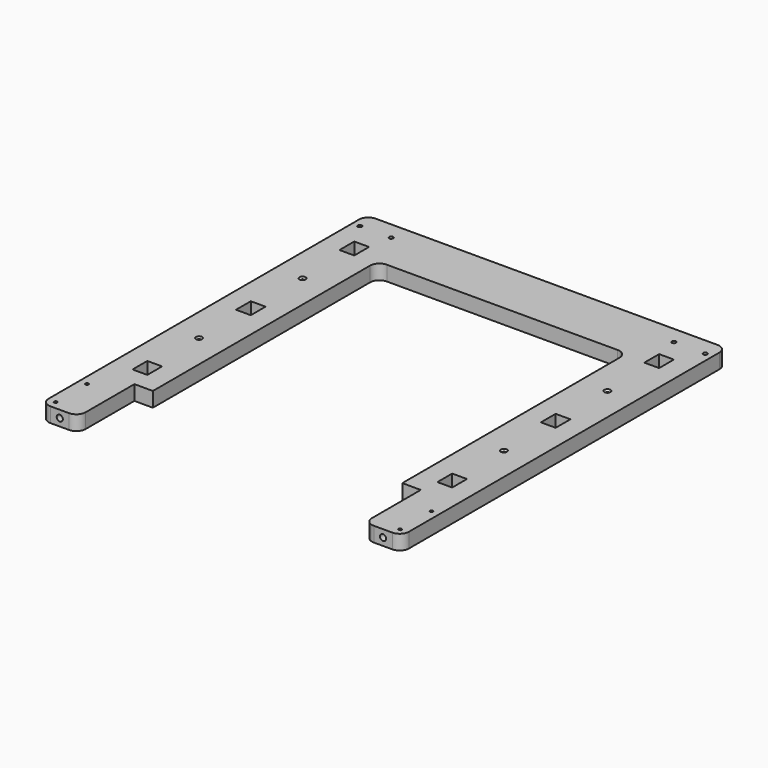
from build123d import *

# Parameters (mm, degrees)
F1_DEPTH       = 16
F2_W           = 20
F2_H           = 76
F2_W_2         = 16
F2_H_2         = 20
F3_DEPTH       = 16
F4_R           = 10
F6_D           = 3.3
F6_CSINK_D     = 6.72
F6_CSINK_ANGLE = 90
F8_D           = 6.6
F8_DEPTH       = 30
F8_TIP         = 1.9828400428
F10_D          = 4.4
F12_D          = 3.3


with BuildPart() as f1:
    # F0 (on Top) → F1 (new body)
    with BuildSketch(Plane.XY):
        Polygon((195, -220), (195, 220), (-195, 220), (-195, -220), (-135, -220), (-135, 160), (135, 160), (135, -220), align=None)
    extrude(amount=F1_DEPTH)

    # F2 (on face) → F3 (cut, through all)
    with BuildSketch(Plane.XY.offset(16)):
        with Locations((-145, -182)):
            Rectangle(F2_W, F2_H)
        with Locations((-165, 166)):
            Rectangle(F2_W_2, F2_H_2)
        with Locations((-165, -114)):
            Rectangle(F2_W_2, F2_H_2)
        with Locations((-165, 26)):
            Rectangle(F2_W_2, F2_H_2)
        with Locations((145, -182)):
            Rectangle(F2_W, F2_H)
        with Locations((165, 26)):
            Rectangle(F2_W_2, F2_H_2)
        with Locations((165, 166)):
            Rectangle(F2_W_2, F2_H_2)
        with Locations((165, -114)):
            Rectangle(F2_W_2, F2_H_2)
    extrude(amount=-F3_DEPTH, mode=Mode.SUBTRACT)

    # F4
    f4_edges = [f1.edges().sort_by_distance(p)[0] for p in [
        (-135, 160, 8),
        (135, 160, 8),
        (-195, 220, 8),
        (195, 220, 8),
        (195, -220, 8),
        (155, -220, 8),
        (-155, -220, 8),
        (-195, -220, 8),
    ]]
    fillet(f4_edges, radius=F4_R)

    # F6 (through all)
    with Locations(Plane.XY.offset(16)):
        with Locations((-165, 96), (-165, -44), (165, 96), (165, -44)):
            CounterSinkHole(F6_D / 2, F6_CSINK_D / 2, counter_sink_angle=F6_CSINK_ANGLE)

    # F8
    with Locations(Plane.XZ.offset(220)):
        with Locations((-175, 8), (175, 8)):
            Hole(F8_D / 2, depth=F8_DEPTH)
            with Locations((0, 0, -(F8_DEPTH + F8_TIP / 2))):  # 118° drill point
                Cone(0, F8_D / 2, F8_TIP, mode=Mode.SUBTRACT)

    # F10 (through all)
    with Locations(Plane.XY.offset(16)):
        with Locations((-187, 201), (-153, 201), (187, 201), (153, 201)):
            Hole(F10_D / 2)

    # F12 (through all)
    with Locations(Plane.XY.offset(16)):
        with Locations((-186.5, -168.75), (-186.5, -211.25), (186.5, -211.25), (186.5, -168.75)):
            Hole(F12_D / 2)


solid = f1.part
